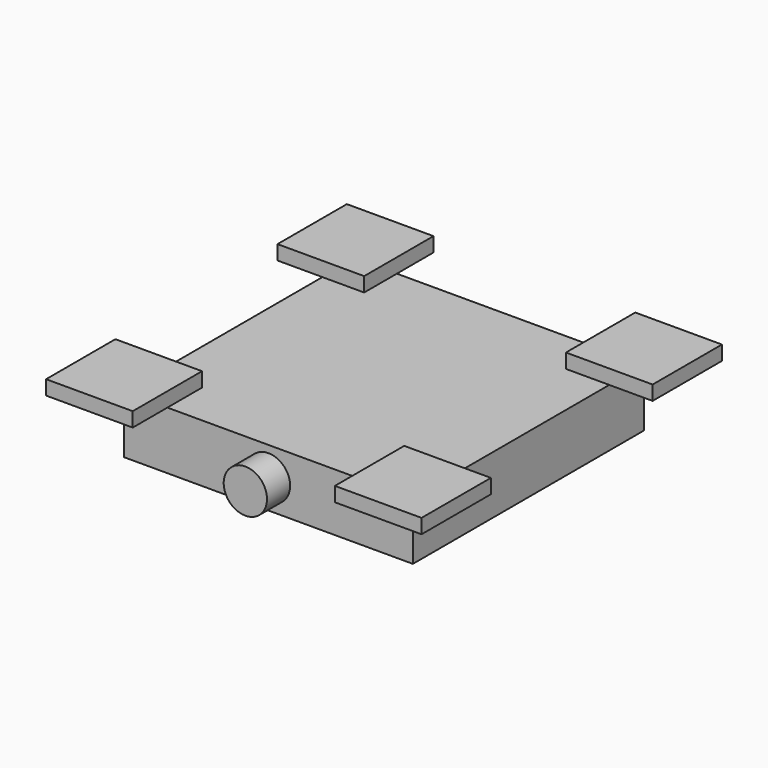
from build123d import *

# Parameters (mm, degrees)
SKETCH_W     = 100
SKETCH_H     = 100
PAD_DEPTH    = 20
SKETCH001_W  = 30
SKETCH001_H  = 30
PAD001_DEPTH = 5
SKETCH002_R  = 7.5
PAD002_DEPTH = 10


with BuildPart() as part:
    # Sketch → Pad (new body)
    with BuildSketch(Plane.XY):
        Rectangle(SKETCH_W, SKETCH_H)
    extrude(amount=PAD_DEPTH)

    # Sketch001 (on Face6 of Pad) → Pad001 (join)
    with BuildSketch(Plane.XY.offset(20)):
        with Locations((-50.543835, 50.845081)):
            Rectangle(SKETCH001_W, SKETCH001_H)
        with Locations((-50, -50)):
            Rectangle(SKETCH001_W, SKETCH001_H)
        with Locations((50, -50)):
            Rectangle(SKETCH001_W, SKETCH001_H)
        with Locations((50, 50)):
            Rectangle(SKETCH001_W, SKETCH001_H)
    extrude(amount=PAD001_DEPTH)

    # Sketch002 (on Face1 of Pad001) → Pad002 (join)
    with BuildSketch(Plane.XZ.offset(50)):
        with Locations((0, 10)):
            Circle(SKETCH002_R)
    extrude(amount=PAD002_DEPTH)


solid = part.part
